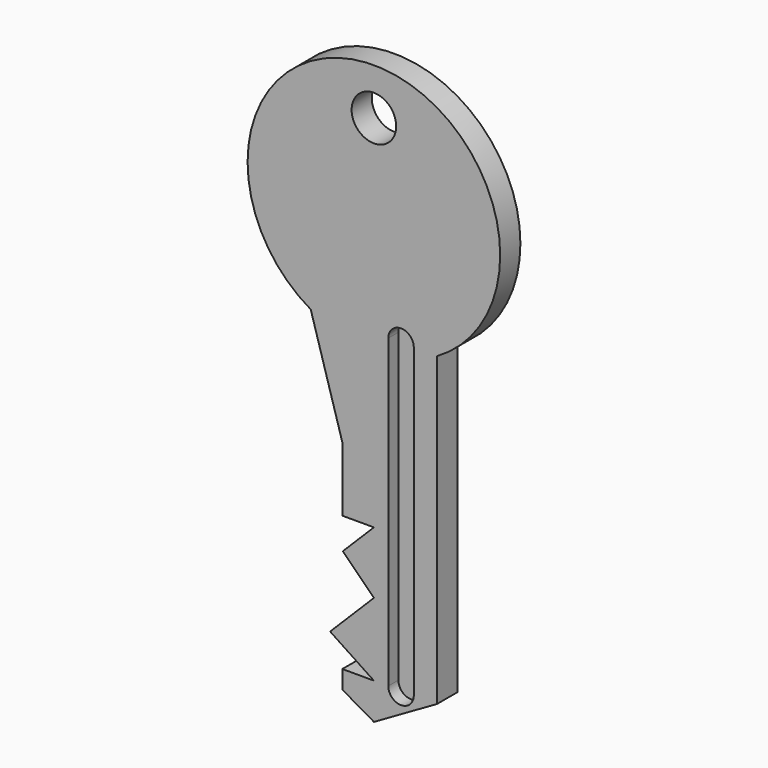
from build123d import *

# Parameters (mm, degrees)
F0_R     = 1.765447
F1_DEPTH = 1
F3_DEPTH = 1


with BuildPart() as f1:
    # F0 (on Front) → F1 (new body, symmetric)
    with BuildSketch(Plane.XZ):
        with BuildLine():
            Line((5, -32.907251), (5, -8.660254))
            ThreePointArc((5, -8.660254), (0, 10), (-5, -8.660254))
            Line((-5, -8.660254), (-2.5, -17.104119))
            Line((-2.5, -17.104119), (-2.5, -22.222003))
            Line((-2.5, -22.222003), (0, -22.222003))
            Line((0, -22.222003), (-2.460267, -24.68227))
            Line((-2.460267, -24.68227), (0, -27.142537))
            Line((0, -27.142537), (-3.467242, -30.609779))
            Line((-3.467242, -30.609779), (0, -32.907251))
            Line((0, -32.907251), (-2.5, -32.907251))
            Line((-2.5, -32.907251), (-2.5, -34.345502))
            Line((-2.5, -34.345502), (0, -35.783753))
            Line((0, -35.783753), (5, -32.907251))
        make_face()
        with Locations((0, 6.308739)):
            Circle(F0_R, mode=Mode.SUBTRACT)
    extrude(amount=F1_DEPTH, both=True)

    # F2 (on face) → F3 (cut)
    with BuildSketch(Plane.XZ.offset(1)):
        with BuildLine():
            Line((3.160392, -32.907251), (3.160392, -8.660254))
            ThreePointArc((3.160392, -8.660254), (2.150394, -7.650256), (1.140397, -8.660254))
            Line((1.140397, -8.660254), (1.140397, -32.907251))
            ThreePointArc((1.140397, -32.907251), (2.150394, -33.917249), (3.160392, -32.907251))
        make_face()
    extrude(amount=-F3_DEPTH, mode=Mode.SUBTRACT)


solid = f1.part
